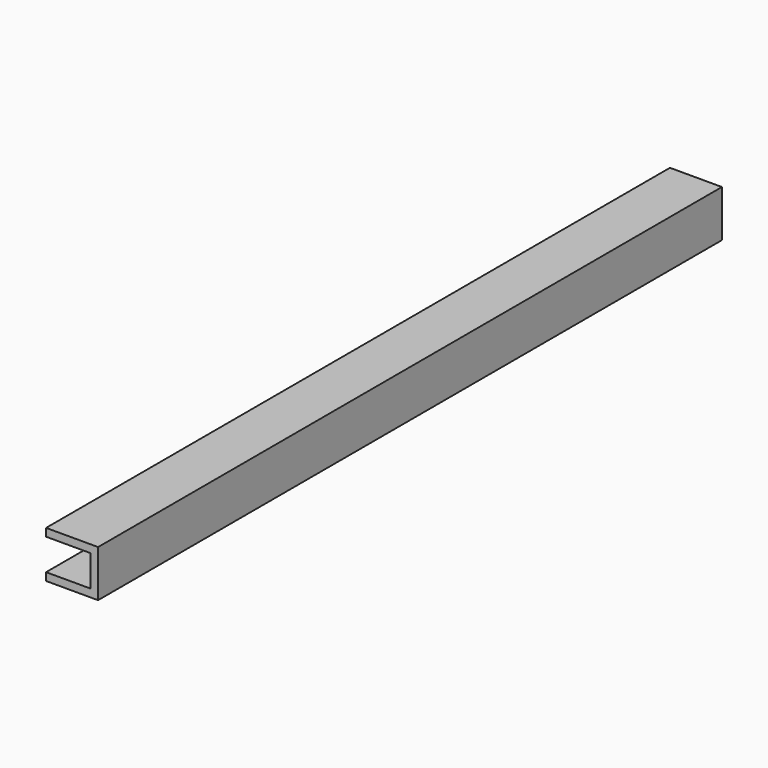
from build123d import *

# Parameters (mm, degrees)
F2_DEPTH      = 150
F2_DEPTH_BACK = 150


with BuildPart() as f2:
    # F1 (on Front) → F2 (new body, two sides)
    with BuildSketch(Plane.XZ) as f2_sk:
        Polygon((-170, 0), (-150, 0), (-150, 18), (-170, 18), (-170, 15), (-153, 15), (-153, 3), (-170, 3), align=None)
    extrude(amount=F2_DEPTH)
    extrude(f2_sk.sketch, amount=-F2_DEPTH_BACK)


solid = f2.part
